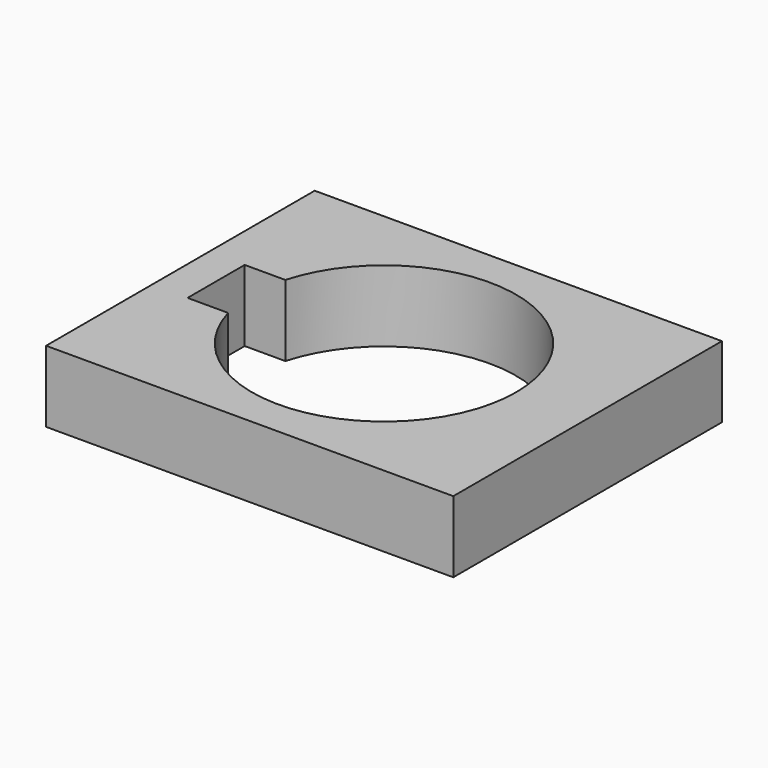
from build123d import *

# Parameters (mm, degrees)
CYLINDER_R     = 18.5
CYLINDER_DEPTH = 10
BOX001_W       = 10
BOX001_H       = 10
BOX001_DEPTH   = 10
BOX_W          = 57
BOX_H          = 47
BOX_DEPTH      = 10


with BuildPart() as cylinder:
    # Cylinder → Cylinder (new body)
    with BuildSketch(Plane(origin=(18.5, 0, -5), x_dir=(1, 0, 0), z_dir=(0, 0, 1))):
        Circle(CYLINDER_R)
    extrude(amount=CYLINDER_DEPTH)


with BuildPart() as fusion:
    # Box001 → Box001 (new body)
    with BuildSketch(Plane(origin=(-5, -5, -5), x_dir=(1, 0, 0), z_dir=(0, 0, 1))):
        with Locations((5, 5)):
            Rectangle(BOX001_W, BOX001_H)
    extrude(amount=BOX001_DEPTH)

    # Fusion: union Cylinder
    add(cylinder.part)


with BuildPart() as cut:
    # Box → Box (new body)
    with BuildSketch(Plane(origin=(-10, -23.5, -5), x_dir=(1, 0, 0), z_dir=(0, 0, 1))):
        with Locations((28.5, 23.5)):
            Rectangle(BOX_W, BOX_H)
    extrude(amount=BOX_DEPTH)

    # Cut: cut Fusion
    add(fusion.part, mode=Mode.SUBTRACT)


solid = cut.part
